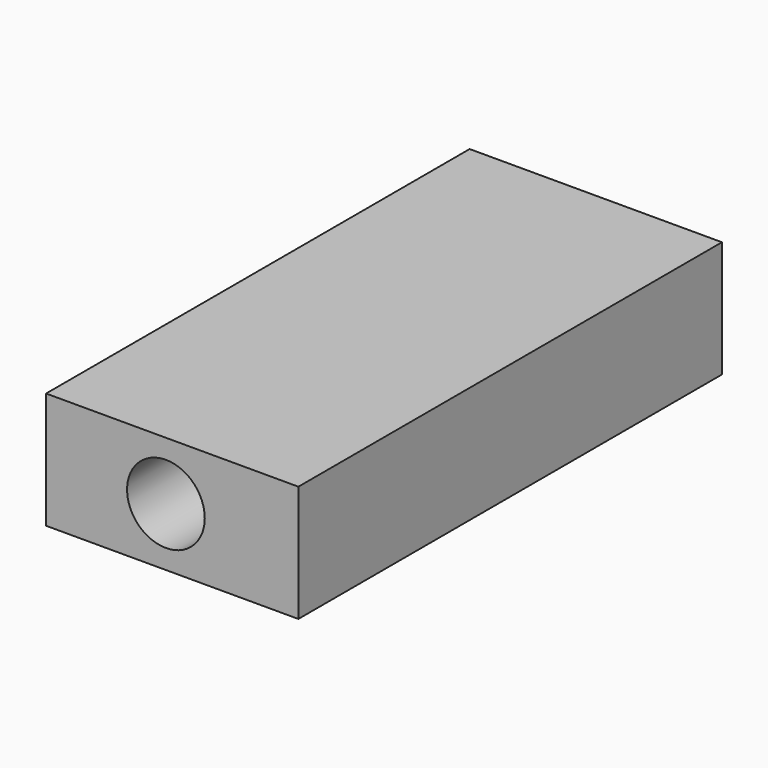
from build123d import *

# Parameters (mm, degrees)
F0_W     = 95.86452
F0_H     = 44.245162
F0_R     = 14.758754
F1_DEPTH = 100.584


with BuildPart() as f1:
    # F0 (on Front) → F1 (new body, symmetric)
    with BuildSketch(Plane.XZ):
        Rectangle(F0_W, F0_H)
        with Locations((-2.396612, 0)):
            Circle(F0_R, mode=Mode.SUBTRACT)
    extrude(amount=F1_DEPTH, both=True)


solid = f1.part
